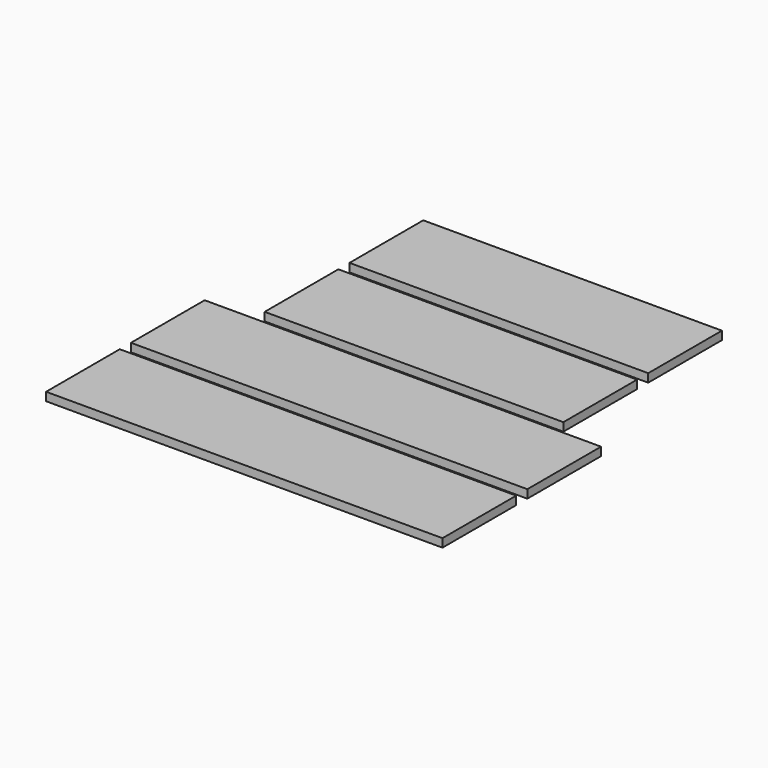
from build123d import *

# Parameters (mm, degrees)
F0_W     = 107
F0_H     = 33
F0_W_2   = 142
F1_DEPTH = 3


with BuildPart() as f1:
    # F0 (on Top) → F1 (new body)
    with BuildSketch(Plane.XY):
        with Locations((0, 68.040252)):
            Rectangle(F0_W, F0_H)
        with Locations((0, 30.040252)):
            Rectangle(F0_W, F0_H)
        with Locations((0, -7.959748)):
            Rectangle(F0_W_2, F0_H)
        with Locations((0, -45.959748)):
            Rectangle(F0_W_2, F0_H)
    extrude(amount=F1_DEPTH)


solid = f1.part
